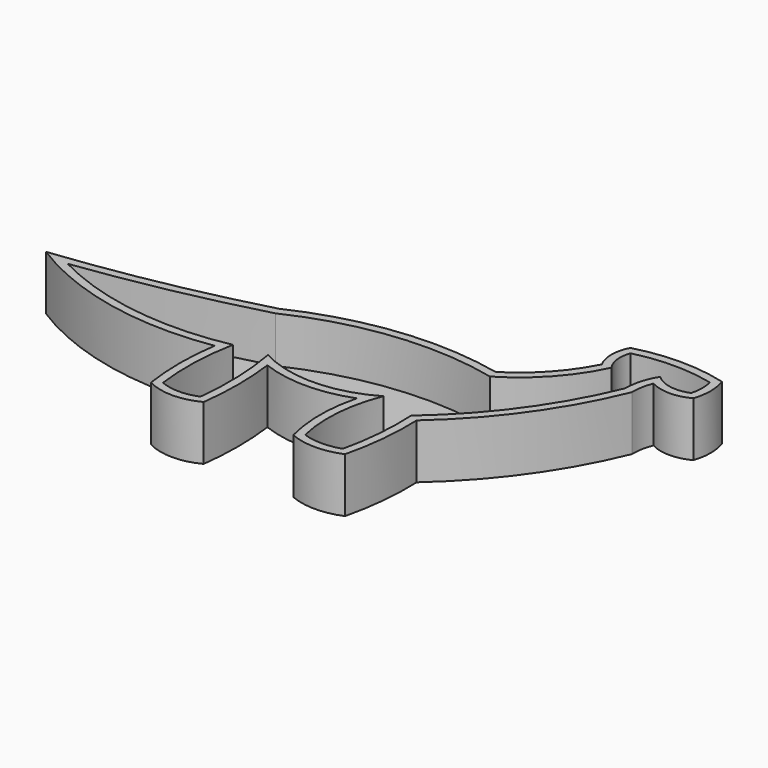
from build123d import *

# Parameters (mm, degrees)
F1_DEPTH = 16.764
F2_T     = -2.54


with BuildPart() as f1:
    # F0 (on Top) → F1 (new body)
    with BuildSketch(Plane.XY):
        with BuildLine():
            ThreePointArc((-27.3717306554, 8.3351464585), (-58.1942297885, 1.2335722613), (-89.4690081477, -3.4936941229))
            ThreePointArc((-89.4690081477, -3.4936941229), (-59.5866465709, -15.5545567425), (-27.3717306554, -16.341406852))
            ThreePointArc((-27.3717306554, -16.341406852), (-28.2894261181, -28.577324003), (-27.3717306554, -40.813241154))
            ThreePointArc((-27.3717306554, -40.813241154), (-19.2654361017, -42.7993539444), (-11.159141548, -40.813241154))
            ThreePointArc((-11.159141548, -40.813241154), (-10.3698295849, -28.577324003), (-11.159141548, -16.341406852))
            ThreePointArc((-11.159141548, -16.341406852), (2.6062666439, -18.882130215), (16.3716748357, -16.341406852))
            ThreePointArc((16.3716748357, -16.341406852), (14.7973986674, -28.577324003), (16.3716748357, -40.813241154))
            ThreePointArc((16.3716748357, -40.813241154), (24.3250187486, -42.4283885346), (32.2783626616, -40.813241154))
            ThreePointArc((32.2783626616, -40.813241154), (34.3564316792, -28.6627716658), (34.7255505621, -16.341406852))
            ThreePointArc((34.7255505621, -16.341406852), (52.8516029477, 3.7290633047), (65.9271404147, 27.4019986391))
            ThreePointArc((65.9271404147, 27.4019986391), (66.1871855747, 30.8308295689), (67.150734365, 34.1317504644))
            ThreePointArc((67.150734365, 34.1317504644), (73.2686892152, 32.6022617519), (79.3866440654, 34.1317504644))
            ThreePointArc((79.3866440654, 34.1317504644), (80.3154931798, 39.6379139274), (79.3866440654, 45.1440773904))
            ThreePointArc((79.3866440654, 45.1440773904), (65.3153397143, 47.0222124706), (51.2440353632, 45.1440773904))
            ThreePointArc((51.2440353632, 45.1440773904), (49.8764380806, 39.6379139274), (51.2440353632, 34.1317504644))
            ThreePointArc((51.2440353632, 34.1317504644), (43.8080532114, 23.470204901), (33.8078588247, 15.1660796255))
            ThreePointArc((33.8078588247, 15.1660796255), (2.6520007539, 16.8204214195), (-27.3717306554, 8.3351464585))
        make_face()
    extrude(amount=F1_DEPTH)

    # F2
    f2_openings = [f1.faces().sort_by_distance(p)[0] for p in [
        (5.65792, -1.687436, 16.764),
    ]]
    offset(amount=F2_T, openings=f2_openings, kind=Kind.INTERSECTION)


solid = f1.part
